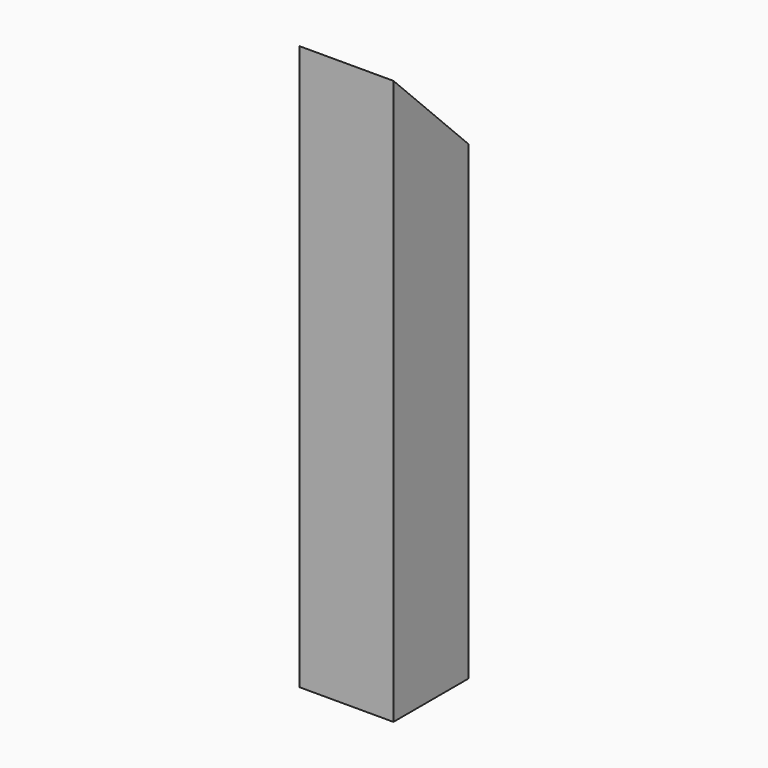
from build123d import *

# Parameters (mm, degrees)
F0_W     = 50
F0_H     = 50
F0_W_2   = 44.5
F0_H_2   = 44.5
F1_DEPTH = 300
F3_DEPTH = 30


with BuildPart() as f1:
    # F0 (on Top) → F1 (new body)
    with BuildSketch(Plane.XY):
        Rectangle(F0_W, F0_H)
        Rectangle(F0_W_2, F0_H_2, mode=Mode.SUBTRACT)
    extrude(amount=F1_DEPTH)

    # F2 (on Right) → F3 (cut, symmetric)
    with BuildSketch(Plane.YZ):
        Polygon((25, 300), (-25, 300), (25, 250), align=None)
    extrude(amount=F3_DEPTH, both=True, mode=Mode.SUBTRACT)


solid = f1.part
